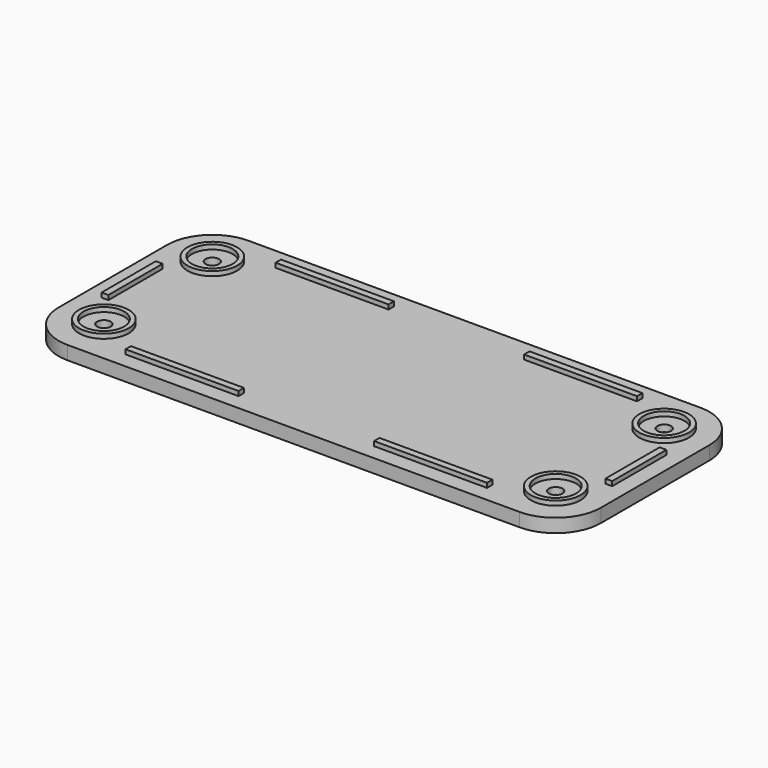
from build123d import *

# Parameters (mm, degrees)
PAD_DEPTH       = 3
SKETCH001_R     = 5.5
SKETCH001_R_2   = 4.5
SKETCH001_W     = 25
SKETCH001_H     = 1.5
SKETCH001_W_2   = 1.5
SKETCH001_H_2   = 15
PAD001_DEPTH    = 1
SKETCH002_R     = 1.5
POCKET_DEPTH    = 264.124048
SKETCH003_R     = 2
POCKET001_DEPTH = 1.5


with BuildPart() as part:
    # Sketch → Pad (new body)
    with BuildSketch(Plane.XY):
        with BuildLine():
            ThreePointArc((-50, 25), (-57.071068, 22.071068), (-60, 15))
            Line((-60, -15), (-60, 15))
            ThreePointArc((-60, -15), (-57.071068, -22.071068), (-50, -25))
            Line((50, -25), (-50, -25))
            ThreePointArc((50, -25), (57.071068, -22.071068), (60, -15))
            Line((60, 15), (60, -15))
            ThreePointArc((60, 15), (57.071068, 22.071068), (50, 25))
            Line((-50, 25), (50, 25))
        make_face()
    extrude(amount=PAD_DEPTH)

    # Sketch001 (on Face10 of Pad) → Pad001 (join)
    with BuildSketch(Plane.XY.offset(3)):
        with Locations((-50, 15)):
            Circle(SKETCH001_R)
        with Locations((-50, 15)):
            Circle(SKETCH001_R_2, mode=Mode.SUBTRACT)
        with Locations((-50, -15)):
            Circle(SKETCH001_R)
        with Locations((-50, -15)):
            Circle(SKETCH001_R_2, mode=Mode.SUBTRACT)
        with Locations((-27.5, 20.75)):
            Rectangle(SKETCH001_W, SKETCH001_H)
        with Locations((-27.5, -20.75)):
            Rectangle(SKETCH001_W, SKETCH001_H)
        with Locations((-55.75, 0)):
            Rectangle(SKETCH001_W_2, SKETCH001_H_2)
    pad001 = extrude(amount=PAD001_DEPTH)

    # Sketch002 (on Face4 of Pad001) → Pocket (cut, through all)
    with BuildSketch(Plane(origin=(0, 0, 0), x_dir=(1, 0, 0), z_dir=(0, 0, -1))):
        with Locations((-50, 15)):
            Circle(SKETCH002_R)
        with Locations((-50, -15)):
            Circle(SKETCH002_R)
    pocket = extrude(amount=-POCKET_DEPTH, mode=Mode.SUBTRACT)

    # Sketch003 (on Face4 of Pocket) → Pocket001 (cut)
    with BuildSketch(Plane(origin=(0, 0, 0), x_dir=(1, 0, 0), z_dir=(0, 0, -1))):
        with Locations((-50, 15)):
            Circle(SKETCH003_R)
        with Locations((-50, -15)):
            Circle(SKETCH003_R)
    pocket001 = extrude(amount=-POCKET001_DEPTH, mode=Mode.SUBTRACT)

    # Mirrored: Pad001, Pocket, Pocket001 across Sketch001 V_Axis
    add(pad001.mirror(Plane(origin=(0, 0, 3), x_dir=(0, 0, 1), z_dir=(1, 0, 0))))
    add(pocket.mirror(Plane(origin=(0, 0, 3), x_dir=(0, 0, 1), z_dir=(1, 0, 0))), mode=Mode.SUBTRACT)
    add(pocket001.mirror(Plane(origin=(0, 0, 3), x_dir=(0, 0, 1), z_dir=(1, 0, 0))), mode=Mode.SUBTRACT)


solid = part.part
